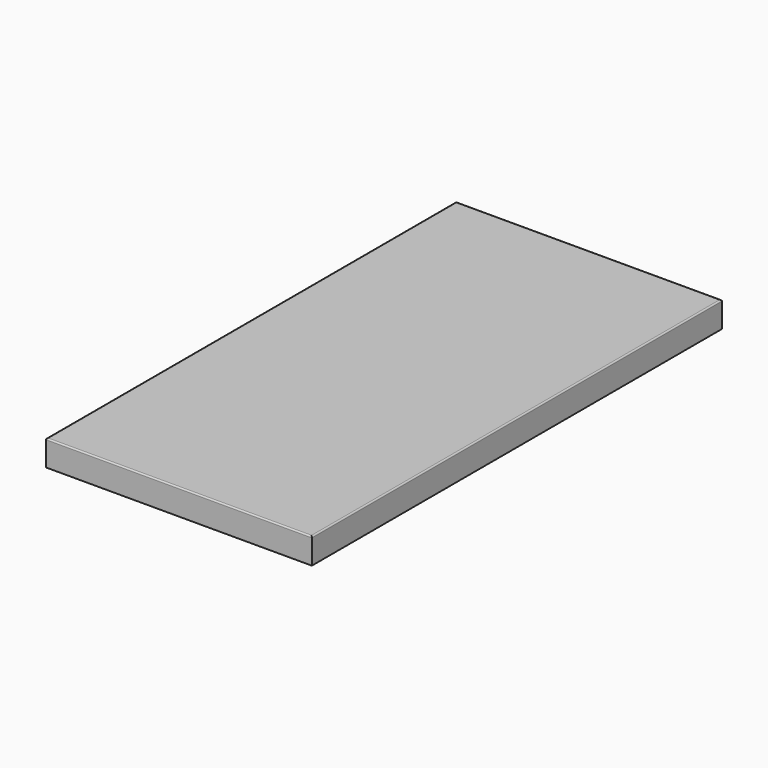
from build123d import *

# Parameters (mm, degrees)
F0_W        = 980
F0_H        = 1890
F1_DEPTH    = 70
F2_R        = 5
F3_W        = 980
F3_H        = 1890
F1_FACE_W   = 980
F1_FACE_H   = 1890
F1_FACE_W_2 = 970
F1_FACE_H_2 = 1880
F4_DEPTH    = 25
F5_W        = 890
F5_H        = 1800
F6_DEPTH    = 50


with BuildPart() as f1:
    # F0 (on Top) → F1 (new body)
    with BuildSketch(Plane.XY):
        Rectangle(F0_W, F0_H)
    extrude(amount=F1_DEPTH)

    # F2
    f2_edges = [f1.edges().sort_by_distance(p)[0] for p in [
        (0, 945, 70),
        (-490, 0, 70),
        (0, -945, 70),
        (490, 0, 70),
    ]]
    fillet(f2_edges, radius=F2_R)

    # F3 (on face) + F1_face (on face) → F4 (join)
    with BuildSketch(Plane(origin=(0, 0, 0), x_dir=(1, 0, 0), z_dir=(0, 0, -1))):
        Rectangle(F3_W, F3_H)
    with BuildSketch(Plane(origin=(0, 0, 0), x_dir=(1, 0, 0), z_dir=(0, 0, -1))):
        Rectangle(F1_FACE_W, F1_FACE_H)
        Rectangle(F1_FACE_W_2, F1_FACE_H_2)
    extrude(amount=F4_DEPTH)

    # F5 (on face) → F6 (cut)
    with BuildSketch(Plane(origin=(0, 0, -25), x_dir=(1, 0, 0), z_dir=(0, 0, -1))):
        Rectangle(F5_W, F5_H)
    extrude(amount=-F6_DEPTH, mode=Mode.SUBTRACT)


solid = f1.part
